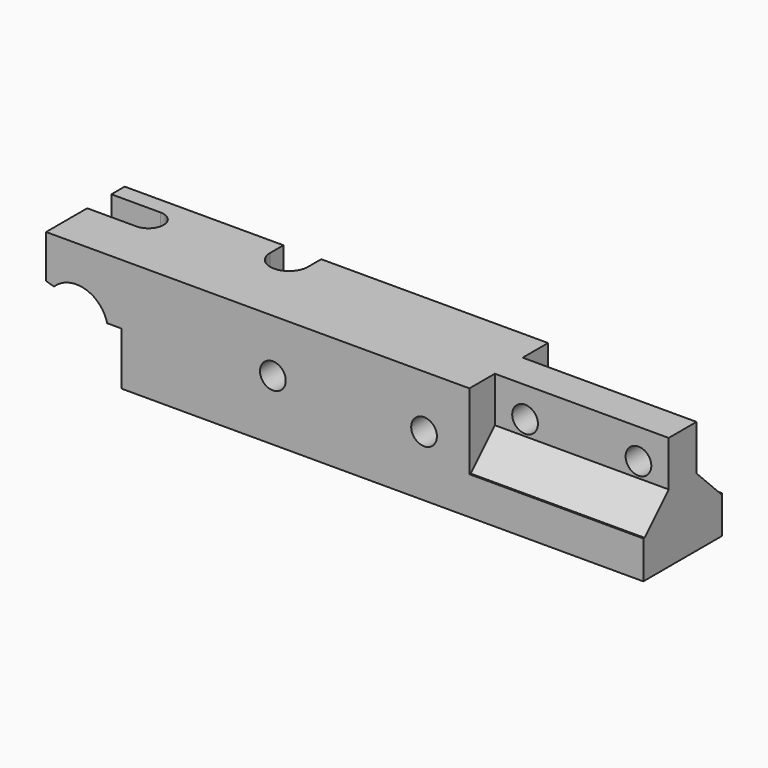
from build123d import *

# Parameters (mm, degrees)
BOX001027045163_W      = 10
BOX001027045163_H      = 4
BOX001027045163_DEPTH  = 60
CYLINDER211_R          = 2
CYLINDER211_DEPTH      = 74
BOX001027045160_W      = 5
BOX001027045160_H      = 10
BOX001027045160_DEPTH  = 21
CYLINDER209_R          = 2.5
CYLINDER209_DEPTH      = 30
CYLINDER205_R          = 1.7
CYLINDER205_DEPTH      = 20
CYLINDER205_ROLL_ANGLE = 90
CYLINDER204_R          = 1.7
CYLINDER204_DEPTH      = 20
CYLINDER204_ROLL_ANGLE = 90
CYLINDER199_R          = 1.7
CYLINDER199_DEPTH      = 20
CYLINDER199_ROLL_ANGLE = 90
CYLINDER198_R          = 1.7
CYLINDER198_DEPTH      = 20
CYLINDER198_ROLL_ANGLE = 90
BOX001027045153_W      = 29
BOX001027045153_H      = 10
BOX001027045153_DEPTH  = 26
BOX001027045151_W      = 41
BOX001027045151_H      = 7
BOX001027045151_DEPTH  = 43
BOX001027045152_W      = 25
BOX001027045152_H      = 6
BOX001027045152_DEPTH  = 43
CYLINDER197_R          = 4.2
CYLINDER197_DEPTH      = 18
CYLINDER197_ROLL_ANGLE = 90
BOX001027045150_W      = 20
BOX001027045150_H      = 18
BOX001027045150_DEPTH  = 15
BOX001027045149_W      = 79
BOX001027045149_H      = 13
BOX001027045149_DEPTH  = 15
CHAMFER017_SIZE        = 2
CHAMFER026_SIZE        = 4
CHAMFER027_SIZE        = 4


with BuildPart() as cube211:
    # Box001027045163 → Box001027045163 (new body)
    with BuildSketch(Plane(origin=(-10, -2, -57), x_dir=(1, 0, 0), z_dir=(0, 0, 1))):
        with Locations((5, 2)):
            Rectangle(BOX001027045163_W, BOX001027045163_H)
    extrude(amount=BOX001027045163_DEPTH)


with BuildPart() as fusion112110:
    # Cylinder211 → Cylinder211 (new body)
    with BuildSketch(Plane.XY.offset(-62)):
        Circle(CYLINDER211_R)
    extrude(amount=CYLINDER211_DEPTH)

    # Fusion112110: union Cube211
    add(cube211.part)


with BuildPart() as fusion112110_1:
    # Fusion112110 placement: moved
    add(fusion112110.part.moved(Location((2.5, 0, 0))))


with BuildPart() as cube208:
    # Box001027045160 → Box001027045160 (new body)
    with BuildSketch(Plane(origin=(17, 2, -68), x_dir=(1, 0, 0), z_dir=(0, 0, 1))):
        with Locations((2.5, 5)):
            Rectangle(BOX001027045160_W, BOX001027045160_H)
    extrude(amount=BOX001027045160_DEPTH)


with BuildPart() as fusion112106:
    # Cylinder209 → Cylinder209 (new body)
    with BuildSketch(Plane(origin=(19.5, 2, -70), x_dir=(1, 0, 0), z_dir=(0, 0, 1))):
        Circle(CYLINDER209_R)
    extrude(amount=CYLINDER209_DEPTH)

    # Fusion112106: union Cube208
    add(cube208.part)


with BuildPart() as cylinder249:
    # Cylinder205 → Cylinder205 (new body)
    with BuildSketch(Plane.XY):
        Circle(CYLINDER205_R)
    extrude(amount=CYLINDER205_DEPTH)


with BuildPart() as cylinder249_1:
    # Cylinder205 roll: moved
    add(cylinder249.part.rotate(Axis((0, 0, 0), (1, 0, 0)), CYLINDER205_ROLL_ANGLE))


with BuildPart() as cylinder249_2:
    # Cylinder205 placement: moved
    add(cylinder249_1.part.moved(Location((46, 8, -54))))


with BuildPart() as fusion112103:
    # Cylinder204 → Cylinder204 (new body)
    with BuildSketch(Plane.XY):
        Circle(CYLINDER204_R)
    extrude(amount=CYLINDER204_DEPTH)


with BuildPart() as fusion112103_1:
    # Cylinder204 roll: moved
    add(fusion112103.part.rotate(Axis((0, 0, 0), (1, 0, 0)), CYLINDER204_ROLL_ANGLE))


with BuildPart() as fusion112103_2:
    # Cylinder204 placement: moved
    add(fusion112103_1.part.moved(Location((26, 8, -54))))

    # Fusion112103: union Cylinder249
    add(cylinder249_2.part)


with BuildPart() as fusion112103_3:
    # Fusion112103 placement: moved
    add(fusion112103_2.part.moved(Location((0, 0, -2))))


with BuildPart() as cylinder243:
    # Cylinder199 → Cylinder199 (new body)
    with BuildSketch(Plane.XY):
        Circle(CYLINDER199_R)
    extrude(amount=CYLINDER199_DEPTH)


with BuildPart() as cylinder243_1:
    # Cylinder199 roll: moved
    add(cylinder243.part.rotate(Axis((0, 0, 0), (1, 0, 0)), CYLINDER199_ROLL_ANGLE))


with BuildPart() as cylinder243_2:
    # Cylinder199 placement: moved
    add(cylinder243_1.part.moved(Location((71, 8, -54))))


with BuildPart() as fusion112100:
    # Cylinder198 → Cylinder198 (new body)
    with BuildSketch(Plane.XY):
        Circle(CYLINDER198_R)
    extrude(amount=CYLINDER198_DEPTH)


with BuildPart() as fusion112100_1:
    # Cylinder198 roll: moved
    add(fusion112100.part.rotate(Axis((0, 0, 0), (1, 0, 0)), CYLINDER198_ROLL_ANGLE))


with BuildPart() as fusion112100_2:
    # Cylinder198 placement: moved
    add(fusion112100_1.part.moved(Location((56, 8, -54))))

    # Fusion112100: union Cylinder243
    add(cylinder243_2.part)


with BuildPart() as fusion112100_3:
    # Fusion112100 placement: moved
    add(fusion112100_2.part.moved(Location((0, 0, 1))))


with BuildPart() as cube201:
    # Box001027045153 → Box001027045153 (new body)
    with BuildSketch(Plane(origin=(23, -2, -64), x_dir=(1, 0, 0), z_dir=(0, 0, 1))):
        with Locations((14.5, 5)):
            Rectangle(BOX001027045153_W, BOX001027045153_H)
    extrude(amount=BOX001027045153_DEPTH)


with BuildPart() as cut174:
    # Box001027045151 → Box001027045151 (new body)
    with BuildSketch(Plane(origin=(35, 0, -59), x_dir=(1, 0, 0), z_dir=(0, 0, 1))):
        with Locations((20.5, 3.5)):
            Rectangle(BOX001027045151_W, BOX001027045151_H)
    extrude(amount=BOX001027045151_DEPTH)

    # Cut174: cut Cube201
    add(cube201.part, mode=Mode.SUBTRACT)


with BuildPart() as fusion112099:
    # Box001027045152 → Box001027045152 (new body)
    with BuildSketch(Plane(origin=(52, -10.6, -59), x_dir=(1, 0, 0), z_dir=(0, 0, 1))):
        with Locations((12.5, 3)):
            Rectangle(BOX001027045152_W, BOX001027045152_H)
    extrude(amount=BOX001027045152_DEPTH)

    # Fusion112099: union Cut174
    add(cut174.part)


with BuildPart() as rocker_cut001:
    # Cylinder197 → Cylinder197 (new body)
    with BuildSketch(Plane.XY):
        Circle(CYLINDER197_R)
    extrude(amount=CYLINDER197_DEPTH)


with BuildPart() as rocker_cut001_1:
    # Cylinder197 roll: moved
    add(rocker_cut001.part.rotate(Axis((0, 0, 0), (1, 0, 0)), CYLINDER197_ROLL_ANGLE))


with BuildPart() as rocker_cut001_2:
    # Cylinder197 placement: moved
    add(rocker_cut001_1.part.moved(Location((0, 7, -58))))


with BuildPart() as fusion112098:
    # Box001027045150 → Box001027045150 (new body)
    with BuildSketch(Plane(origin=(-14, -11.8, -72), x_dir=(1, 0, 0), z_dir=(0, 0, 1))):
        with Locations((10, 9)):
            Rectangle(BOX001027045150_W, BOX001027045150_H)
    extrude(amount=BOX001027045150_DEPTH)

    # Fusion112098: union rocker-cut001
    add(rocker_cut001_2.part)


with BuildPart() as base_and_mount:
    # Box001027045149 → Box001027045149 (new body)
    with BuildSketch(Plane(origin=(-4, -8.8, -64), x_dir=(1, 0, 0), z_dir=(0, 0, 1))):
        with Locations((39.5, 6.5)):
            Rectangle(BOX001027045149_W, BOX001027045149_H)
    extrude(amount=BOX001027045149_DEPTH)

    # Cut173: cut Fusion112098
    add(fusion112098.part, mode=Mode.SUBTRACT)

    # Chamfer017
    chamfer017_edges = [base_and_mount.edges().sort_by_distance(p)[0] for p in [
        (-4, -2.3, -56.719375),
    ]]
    chamfer(chamfer017_edges, length=CHAMFER017_SIZE)

    # Cut175: cut Fusion112099
    add(fusion112099.part, mode=Mode.SUBTRACT)

    # Cut176: cut Fusion112100
    add(fusion112100_3.part, mode=Mode.SUBTRACT)

    # Cut179: cut Fusion112103
    add(fusion112103_3.part, mode=Mode.SUBTRACT)

    # Cut184: cut Fusion112106
    add(fusion112106.part, mode=Mode.SUBTRACT)

    # Cut189: cut Fusion112110
    add(fusion112110_1.part, mode=Mode.SUBTRACT)

    # Chamfer026
    chamfer026_edges = [base_and_mount.edges().sort_by_distance(p)[0] for p in [
        (63.5, 0, -59),
    ]]
    chamfer(chamfer026_edges, length=CHAMFER026_SIZE)

    # Chamfer027
    chamfer027_edges = [base_and_mount.edges().sort_by_distance(p)[0] for p in [
        (63.5, -4.6, -59),
    ]]
    chamfer(chamfer027_edges, length=CHAMFER027_SIZE)


solid = base_and_mount.part
